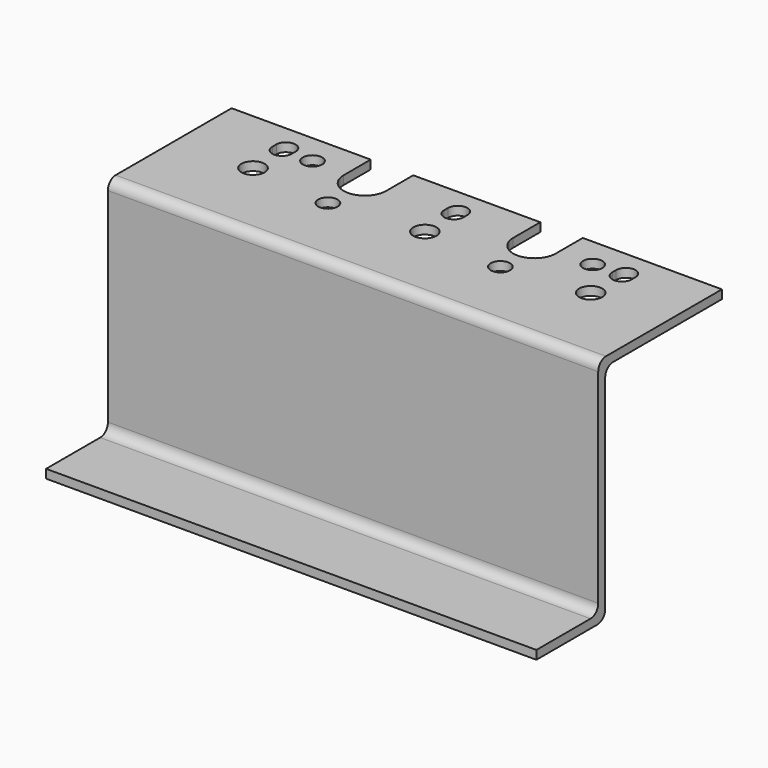
from build123d import *

# Parameters (mm, degrees)
F0_W     = 101.5
F0_H     = 48
F1_DEPTH = 1.8
F2_W     = 101.5
F2_H     = 1.8
F3_DEPTH = 16
F4_DEPTH = 32
F5_R     = 2
F6_R     = 2.4
F6_R_2   = 2
F7_DEPTH = 48.001


with BuildPart() as f1:
    # F0 (on Front) → F1 (new body)
    with BuildSketch(Plane.XZ):
        with Locations((50.75, 24)):
            Rectangle(F0_W, F0_H)
    extrude(amount=F1_DEPTH)

    # F2 (on face) → F3 (join)
    with BuildSketch(Plane.XZ.offset(1.8)):
        with Locations((50.75, 0.9)):
            Rectangle(F2_W, F2_H)
    extrude(amount=F3_DEPTH)

    # F2 (on face) → F4 (join)
    with BuildSketch(Plane.XZ.offset(1.8)):
        with Locations((50.75, 47.1)):
            Rectangle(F2_W, F2_H)
    extrude(amount=-F4_DEPTH)

    # F5
    f5_edges = [f1.edges().sort_by_distance(p)[0] for p in [
        (50.75, -1.8, 48),
        (50.75, -1.8, 1.8),
        (50.75, 0, 46.2),
        (50.75, 0, 0),
    ]]
    fillet(f5_edges, radius=F5_R)

    # F6 (on face) → F7 (cut, through all)
    with BuildSketch(Plane.XY.offset(48)):
        with Locations((15.8, 16)):
            Circle(F6_R)
        with Locations((21.75, 23.95)):
            Circle(F6_R_2)
        with BuildLine():
            ThreePointArc((17.5665768757, 24.8), (15.5665768757, 26.8), (13.5665768757, 24.8))
            Line((13.5665768757, 24.8), (13.5665768757, 23.8))
            ThreePointArc((13.5665768757, 23.8), (15.5665768757, 21.8), (17.5665768757, 23.8))
            Line((17.5665768757, 23.8), (17.5665768757, 24.8))
        make_face()
        with Locations((32.9, 14)):
            Circle(F6_R_2)
        with BuildLine():
            Line((87.9334231243, 23.8), (87.9334231243, 24.8))
            ThreePointArc((87.9334231243, 24.8), (85.9334231243, 26.8), (83.9334231243, 24.8))
            Line((83.9334231243, 24.8), (83.9334231243, 23.8))
            ThreePointArc((83.9334231243, 23.8), (85.9334231243, 21.8), (87.9334231243, 23.8))
        make_face()
        with Locations((79.75, 23.95)):
            Circle(F6_R_2)
        with Locations((85.7, 16)):
            Circle(F6_R)
        with Locations((68.6, 14)):
            Circle(F6_R_2)
        with BuildLine():
            Line((53.1334231243, 23.8), (53.1334231243, 24.8))
            ThreePointArc((53.1334231243, 24.8), (51.1334231243, 26.8), (49.1334231243, 24.8))
            Line((49.1334231243, 24.8), (49.1334231243, 23.8))
            ThreePointArc((49.1334231243, 23.8), (51.1334231243, 21.8), (53.1334231243, 23.8))
        make_face()
        with Locations((51.3668462485, 16)):
            Circle(F6_R)
        with BuildLine():
            Line((37.6, 30.2), (28.8, 30.2))
            Line((28.8, 30.2), (28.8, 23.2))
            ThreePointArc((28.8, 23.2), (33.2, 18.8), (37.6, 23.2))
            Line((37.6, 23.2), (37.6, 30.2))
        make_face()
        with BuildLine():
            Line((72.7, 30.2), (63.9, 30.2))
            Line((63.9, 30.2), (63.9, 23.2))
            ThreePointArc((63.9, 23.2), (68.3, 18.8), (72.7, 23.2))
            Line((72.7, 23.2), (72.7, 30.2))
        make_face()
    extrude(amount=-F7_DEPTH, mode=Mode.SUBTRACT)


solid = f1.part
